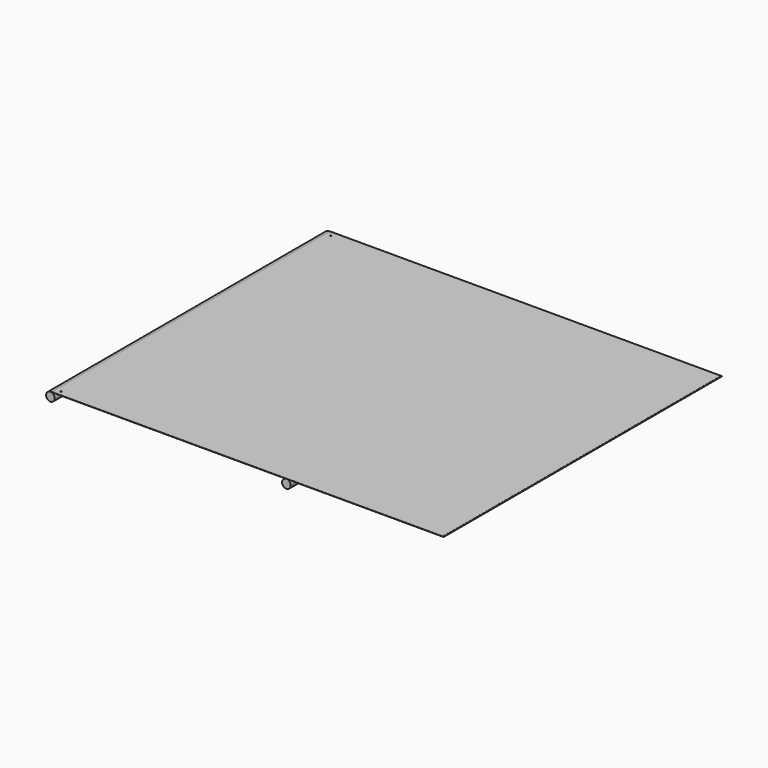
from build123d import *

# Parameters (mm, degrees)
F0_R     = 50
F1_DEPTH = 4000
F3_D     = 15
F5_D     = 15


with BuildPart() as f1:
    # F0 (on Front) → F1 (new body)
    with BuildSketch(Plane.XZ):
        Polygon((-1765.098724, 0.410088), (-1765.098724, -2.589912), (934.901275, -2.589912), (2734.901276, -2.589912), (2734.901276, -1.533305), (2734.901276, -0.456593), (2734.901276, 0.410088), align=None)
        with BuildLine():
            ThreePointArc((984.901276, -52.589912), (970.256615, -17.234573), (934.901275, -2.589912))
            ThreePointArc((934.901275, -2.589912), (899.545938, -87.945251), (984.901276, -52.589912))
        make_face()
        with BuildLine():
            Line((2734.901276, -0.456593), (2734.901276, -1.533305))
            Line((2734.901276, -1.533305), (2738.501901, -1.533305))
            ThreePointArc((2738.501901, -1.533305), (2738.464159, -0.992664), (2738.543816, -0.456593))
            Line((2738.543816, -0.456593), (2734.901276, -0.456593))
        make_face()
        with BuildLine():
            ThreePointArc((2738.543816, -0.456593), (2738.464159, -0.992664), (2738.501901, -1.533305))
            ThreePointArc((2738.501901, -1.533305), (2741.184848, -3.579984), (2743.462267, -1.089912))
            ThreePointArc((2743.462267, -1.089912), (2741.281541, 1.389617), (2738.543816, -0.456593))
        make_face()
        with Locations((-1778.709888, -52.589912)):
            Circle(F0_R)
    extrude(amount=F1_DEPTH)

    # F3 (through all)
    with Locations(Plane.XY.offset(0.410088)):
        with Locations((-1705.098724, -60)):
            Hole(F3_D / 2)

    # F5 (through all)
    with Locations(Plane.XY.offset(0.410088)):
        with Locations((-1705.098724, -3940)):
            Hole(F5_D / 2)


solid = f1.part
